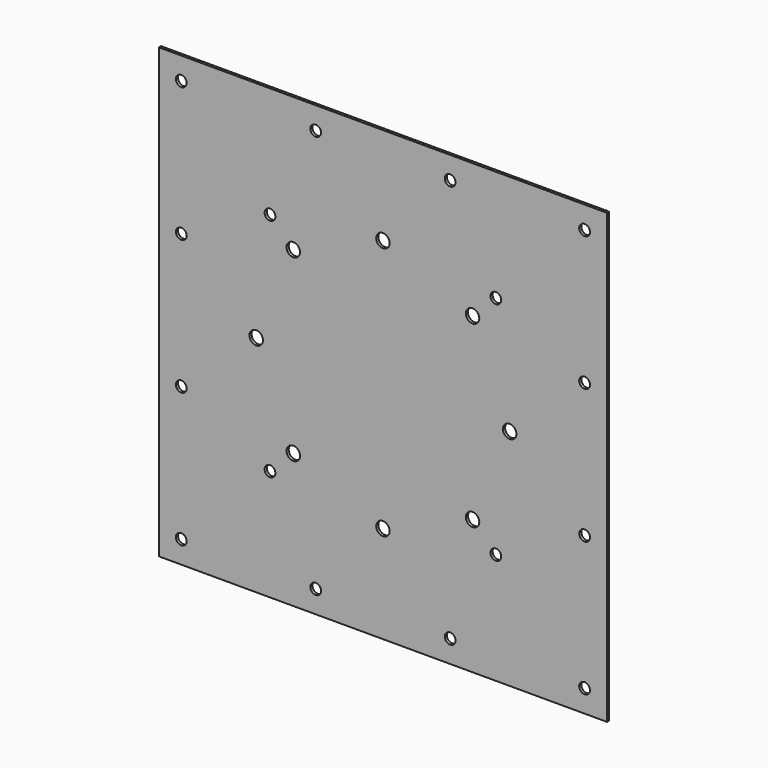
from build123d import *

# Parameters (mm, degrees)
F0_W     = 500
F0_H     = 500
F1_DEPTH = 3
F3_D     = 15
F5_D     = 12
F7_D     = 12


with BuildPart() as f1:
    # F0 (on Front) → F1 (new body)
    with BuildSketch(Plane.XZ):
        with Locations((250, 250)):
            Rectangle(F0_W, F0_H)
    extrude(amount=F1_DEPTH)

    # F3 (through all)
    with Locations(Plane.XZ.offset(3)):
        with Locations((150, 350), (250, 391.421356), (350, 350), (391.421356, 250), (350, 150), (250, 108.578644), (150, 150), (108.578644, 250)):
            Hole(F3_D / 2)

    # F5 (through all)
    with Locations(Plane.XZ.offset(3)):
        with Locations((25, 325), (25, 475), (175, 475), (325, 475), (475, 475), (475, 325), (475, 175), (475, 25), (325, 25), (175, 25), (25, 25), (25, 175)):
            Hole(F5_D / 2)

    # F7 (through all)
    with Locations(Plane.XZ.offset(3)):
        with Locations((124, 376), (376, 376), (376, 124), (124, 124)):
            Hole(F7_D / 2)


solid = f1.part
